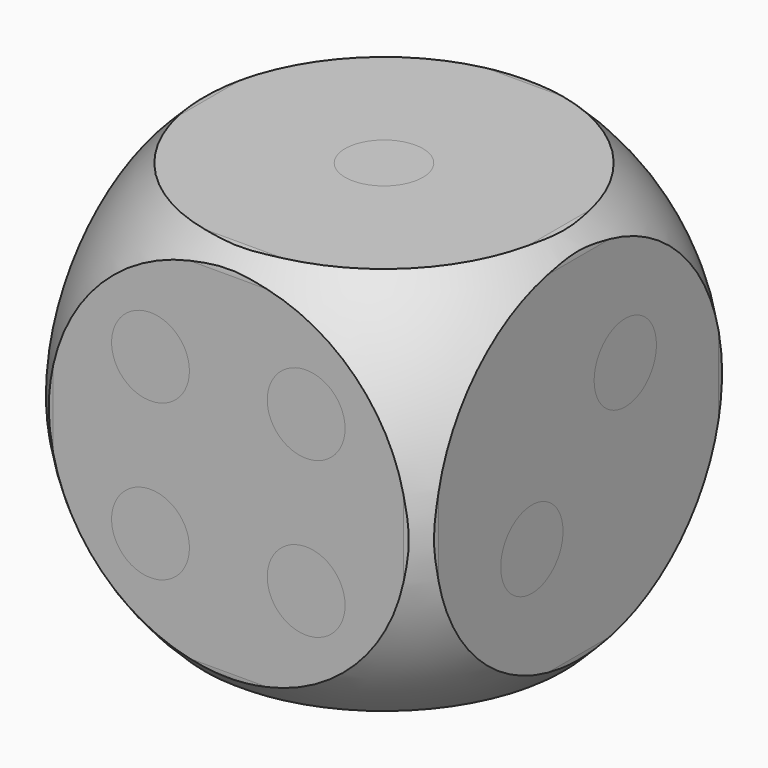
from build123d import *

# Parameters (mm, degrees)
BOX_W             = 10
BOX_H             = 10
BOX_DEPTH         = 10
FILLET_R          = 0.5
CYLINDER_R        = 1
CYLINDER_DEPTH    = 10
CYLINDER001_R     = 1
CYLINDER001_DEPTH = 2
CYLINDER002_R     = 1
CYLINDER002_DEPTH = 2
CYLINDER003_R     = 1
CYLINDER003_DEPTH = 2
CYLINDER004_R     = 1
CYLINDER004_DEPTH = 2
CYLINDER005_R     = 1
CYLINDER005_DEPTH = 2
CYLINDER006_R     = 1
CYLINDER006_DEPTH = 2
CYLINDER007_R     = 1
CYLINDER007_DEPTH = 2
CYLINDER008_R     = 1
CYLINDER008_DEPTH = 2
CYLINDER009_R     = 1
CYLINDER009_DEPTH = 2
CYLINDER010_R     = 1
CYLINDER010_DEPTH = 2
CYLINDER011_R     = 1
CYLINDER011_DEPTH = 2
CYLINDER012_R     = 1
CYLINDER012_DEPTH = 2
CYLINDER013_R     = 1
CYLINDER013_DEPTH = 2
CYLINDER015_R     = 1
CYLINDER015_DEPTH = 2
CYLINDER016_R     = 1
CYLINDER016_DEPTH = 2
CYLINDER017_R     = 1
CYLINDER017_DEPTH = 2
CYLINDER018_R     = 1
CYLINDER018_DEPTH = 2
CYLINDER019_R     = 1
CYLINDER019_DEPTH = 2
CYLINDER020_R     = 1
CYLINDER020_DEPTH = 2


with BuildPart() as sphere:
    # Sphere → Sphere (revolve)
    with BuildSketch(Plane(origin=(5, 5, 5), x_dir=(1, 0, 0), z_dir=(0, -1, 0))):
        with BuildLine():
            ThreePointArc((0, -6.8), (6.8, 0), (0, 6.8))
            Line((0, 6.8), (0, -6.8))
        make_face()
    revolve(axis=Axis((5, 5, 5), (0, 0, 1)))


with BuildPart() as common:
    # Box → Box (new body)
    with BuildSketch(Plane.XY):
        with Locations((5, 5)):
            Rectangle(BOX_W, BOX_H)
    extrude(amount=BOX_DEPTH)

    # Fillet
    fillet_edges = [common.edges().sort_by_distance(p)[0] for p in [
        (0, 0, 5),
        (0, 5, 10),
        (0, 10, 5),
        (0, 5, 0),
        (10, 0, 5),
        (10, 5, 10),
        (10, 10, 5),
        (10, 5, 0),
        (5, 0, 0),
        (5, 0, 10),
        (5, 10, 0),
        (5, 10, 10),
    ]]
    fillet(fillet_edges, radius=FILLET_R)

    # Common: intersect Sphere
    add(sphere.part, mode=Mode.INTERSECT)


with BuildPart() as cylinder:
    # Cylinder → Cylinder (new body)
    with BuildSketch(Plane(origin=(5, 5, 0), x_dir=(1, 0, 0), z_dir=(0, 0, 1))):
        Circle(CYLINDER_R)
    extrude(amount=CYLINDER_DEPTH)


with BuildPart() as cylinder001:
    # Cylinder001 → Cylinder001 (new body)
    with BuildSketch(Plane(origin=(7, 3, 0), x_dir=(1, 0, 0), z_dir=(0, 0, 1))):
        Circle(CYLINDER001_R)
    extrude(amount=CYLINDER001_DEPTH)


with BuildPart() as cylinder002:
    # Cylinder002 → Cylinder002 (new body)
    with BuildSketch(Plane(origin=(3, 7, 0), x_dir=(1, 0, 0), z_dir=(0, 0, 1))):
        Circle(CYLINDER002_R)
    extrude(amount=CYLINDER002_DEPTH)


with BuildPart() as cylinder003:
    # Cylinder003 → Cylinder003 (new body)
    with BuildSketch(Plane(origin=(0, 5, 5), x_dir=(0, 0, -1), z_dir=(1, 0, 0))):
        Circle(CYLINDER003_R)
    extrude(amount=CYLINDER003_DEPTH)


with BuildPart() as cylinder004:
    # Cylinder004 → Cylinder004 (new body)
    with BuildSketch(Plane(origin=(0, 7, 7), x_dir=(0, 0, -1), z_dir=(1, 0, 0))):
        Circle(CYLINDER004_R)
    extrude(amount=CYLINDER004_DEPTH)


with BuildPart() as cylinder005:
    # Cylinder005 → Cylinder005 (new body)
    with BuildSketch(Plane(origin=(0, 7, 3), x_dir=(0, 0, -1), z_dir=(1, 0, 0))):
        Circle(CYLINDER005_R)
    extrude(amount=CYLINDER005_DEPTH)


with BuildPart() as cylinder006:
    # Cylinder006 → Cylinder006 (new body)
    with BuildSketch(Plane(origin=(0, 3, 7), x_dir=(0, 0, -1), z_dir=(1, 0, 0))):
        Circle(CYLINDER006_R)
    extrude(amount=CYLINDER006_DEPTH)


with BuildPart() as cylinder007:
    # Cylinder007 → Cylinder007 (new body)
    with BuildSketch(Plane(origin=(0, 3, 3), x_dir=(0, 0, -1), z_dir=(1, 0, 0))):
        Circle(CYLINDER007_R)
    extrude(amount=CYLINDER007_DEPTH)


with BuildPart() as cylinder008:
    # Cylinder008 → Cylinder008 (new body)
    with BuildSketch(Plane(origin=(3, 2, 3), x_dir=(1, 0, 0), z_dir=(0, -1, 0))):
        Circle(CYLINDER008_R)
    extrude(amount=CYLINDER008_DEPTH)


with BuildPart() as cylinder009:
    # Cylinder009 → Cylinder009 (new body)
    with BuildSketch(Plane(origin=(7, 2, 3), x_dir=(1, 0, 0), z_dir=(0, -1, 0))):
        Circle(CYLINDER009_R)
    extrude(amount=CYLINDER009_DEPTH)


with BuildPart() as cylinder010:
    # Cylinder010 → Cylinder010 (new body)
    with BuildSketch(Plane(origin=(7, 2, 7), x_dir=(1, 0, 0), z_dir=(0, -1, 0))):
        Circle(CYLINDER010_R)
    extrude(amount=CYLINDER010_DEPTH)


with BuildPart() as cylinder011:
    # Cylinder011 → Cylinder011 (new body)
    with BuildSketch(Plane(origin=(3, 2, 7), x_dir=(1, 0, 0), z_dir=(0, -1, 0))):
        Circle(CYLINDER011_R)
    extrude(amount=CYLINDER011_DEPTH)


with BuildPart() as cylinder012:
    # Cylinder012 → Cylinder012 (new body)
    with BuildSketch(Plane(origin=(8, 3.5, 3.5), x_dir=(0, 0, -1), z_dir=(1, 0, 0))):
        Circle(CYLINDER012_R)
    extrude(amount=CYLINDER012_DEPTH)


with BuildPart() as cylinder013:
    # Cylinder013 → Cylinder013 (new body)
    with BuildSketch(Plane(origin=(8, 6.5, 6.5), x_dir=(0, 0, -1), z_dir=(1, 0, 0))):
        Circle(CYLINDER013_R)
    extrude(amount=CYLINDER013_DEPTH)


with BuildPart() as cylinder015:
    # Cylinder015 → Cylinder015 (new body)
    with BuildSketch(Plane(origin=(6.5, 8, 7.5), x_dir=(1, 0, 0), z_dir=(0, 1, 0))):
        Circle(CYLINDER015_R)
    extrude(amount=CYLINDER015_DEPTH)


with BuildPart() as cylinder016:
    # Cylinder016 → Cylinder016 (new body)
    with BuildSketch(Plane(origin=(6.5, 8, 5), x_dir=(1, 0, 0), z_dir=(0, 1, 0))):
        Circle(CYLINDER016_R)
    extrude(amount=CYLINDER016_DEPTH)


with BuildPart() as cylinder017:
    # Cylinder017 → Cylinder017 (new body)
    with BuildSketch(Plane(origin=(6.5, 8, 2.5), x_dir=(1, 0, 0), z_dir=(0, 1, 0))):
        Circle(CYLINDER017_R)
    extrude(amount=CYLINDER017_DEPTH)


with BuildPart() as cylinder018:
    # Cylinder018 → Cylinder018 (new body)
    with BuildSketch(Plane(origin=(3.5, 8, 7.5), x_dir=(1, 0, 0), z_dir=(0, 1, 0))):
        Circle(CYLINDER018_R)
    extrude(amount=CYLINDER018_DEPTH)


with BuildPart() as cylinder019:
    # Cylinder019 → Cylinder019 (new body)
    with BuildSketch(Plane(origin=(3.5, 8, 5), x_dir=(1, 0, 0), z_dir=(0, 1, 0))):
        Circle(CYLINDER019_R)
    extrude(amount=CYLINDER019_DEPTH)


with BuildPart() as cylinder020:
    # Cylinder020 → Cylinder020 (new body)
    with BuildSketch(Plane(origin=(3.5, 8, 2.5), x_dir=(1, 0, 0), z_dir=(0, 1, 0))):
        Circle(CYLINDER020_R)
    extrude(amount=CYLINDER020_DEPTH)


solid = Compound([common.part, cylinder.part, cylinder001.part, cylinder002.part, cylinder003.part, cylinder004.part, cylinder005.part, cylinder006.part, cylinder007.part, cylinder008.part, cylinder009.part, cylinder010.part, cylinder011.part, cylinder012.part, cylinder013.part, cylinder015.part, cylinder016.part, cylinder017.part, cylinder018.part, cylinder019.part, cylinder020.part])
